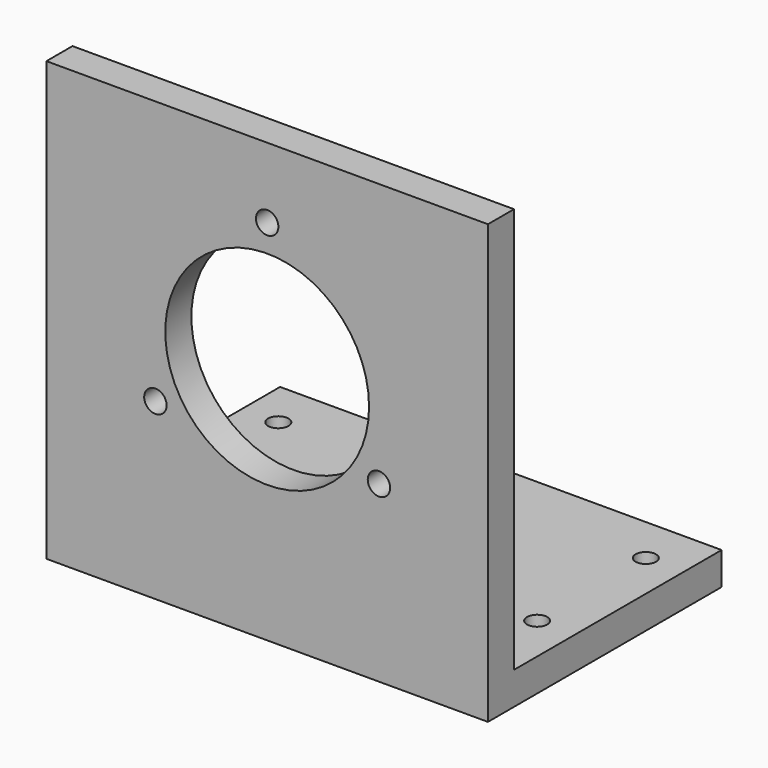
from build123d import *

# Parameters (mm, degrees)
F0_W     = 65
F0_H     = 43
F0_R     = 1.5
F1_DEPTH = 4.8
F3_DEPTH = 59.7
F5_DEPTH = 53.001
F6_R     = 15
F7_DEPTH = 43.001
F8_D     = 3.3


with BuildPart() as f1:
    # F0 (on Top) → F1 (new body)
    with BuildSketch(Plane.XY):
        Rectangle(F0_W, F0_H)
        with Locations((-27.16, -5.5)):
            Circle(F0_R, mode=Mode.SUBTRACT)
        with Locations((26.94, -5.5)):
            Circle(F0_R, mode=Mode.SUBTRACT)
        with Locations((-27.16, 14.5)):
            Circle(F0_R, mode=Mode.SUBTRACT)
        with Locations((26.94, 14.5)):
            Circle(F0_R, mode=Mode.SUBTRACT)
    extrude(amount=F1_DEPTH)

    # F2 (on face) → F3 (join)
    with BuildSketch(Plane.XY.offset(4.8)):
        Polygon((-20.5, -16.7), (-32.5, -16.7), (-32.5, -21.5), (32.5, -21.5), (32.5, -16.7), (20.5, -16.7), (20.5, -8.7), (17.5, -8.7), (17.5, -16.7), (-17.5, -16.7), (-17.5, -8.7), (-20.5, -8.7), align=None)
    extrude(amount=F3_DEPTH)

    # F4 (on face) → F5 (cut, through all)
    with BuildSketch(Plane(origin=(-20.5, 0, 0), x_dir=(0, -1, 0), z_dir=(-1, 0, 0))):
        Polygon((16.7, 12.8), (16.7, 64.5), (8.7, 64.5), (8.7, 4.8), align=None)
    extrude(amount=-F5_DEPTH, mode=Mode.SUBTRACT)

    # F6 (on face) → F7 (cut, through all)
    with BuildSketch(Plane.XZ.offset(21.5)):
        with Locations((0, 35.14)):
            Circle(F6_R)
    extrude(amount=-F7_DEPTH, mode=Mode.SUBTRACT)

    # F8 (through all)
    with Locations(Plane.XZ.offset(21.5)):
        with Locations((0, 54.14), (-16.454483, 25.64), (16.454483, 25.64)):
            Hole(F8_D / 2)


solid = f1.part
